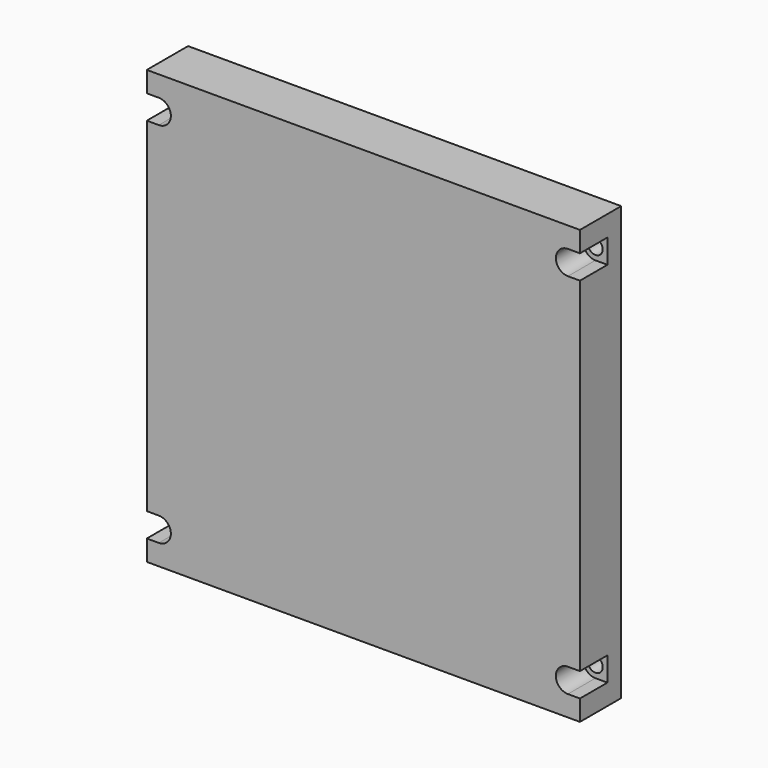
from build123d import *

# Parameters (mm, degrees)
F0_W     = 252
F0_H     = 252
F1_DEPTH = 30
F3_DEPTH = 20
F5_D     = 8.5


with BuildPart() as f1:
    # F0 (on Front) → F1 (new body)
    with BuildSketch(Plane.XZ):
        with Locations((126, 126)):
            Rectangle(F0_W, F0_H)
    extrude(amount=F1_DEPTH)

    # F2 (on face) → F3 (cut)
    with BuildSketch(Plane.XZ.offset(30)):
        with BuildLine():
            Line((7, 26), (0, 26))
            Line((0, 26), (0, 12))
            Line((0, 12), (7, 12))
            ThreePointArc((7, 12), (14, 19), (7, 26))
        make_face()
        with BuildLine():
            Line((245, 12), (252, 12))
            Line((252, 12), (252, 26))
            Line((252, 26), (245, 26))
            ThreePointArc((245, 26), (238, 19), (245, 12))
        make_face()
        with BuildLine():
            Line((252, 226), (252, 240))
            Line((252, 240), (245, 240))
            ThreePointArc((245, 240), (238, 233), (245, 226))
            Line((245, 226), (252, 226))
        make_face()
        with BuildLine():
            Line((0, 233), (0, 226))
            Line((0, 226), (7, 226))
            ThreePointArc((7, 226), (14, 233), (7, 240))
            Line((7, 240), (0, 240))
            Line((0, 240), (0, 233))
        make_face()
    extrude(amount=-F3_DEPTH, mode=Mode.SUBTRACT)

    # F5 (through all)
    with Locations(Plane.XZ.offset(10)):
        with Locations((7, 233), (245, 233), (245, 19), (7, 19)):
            Hole(F5_D / 2)


solid = f1.part
